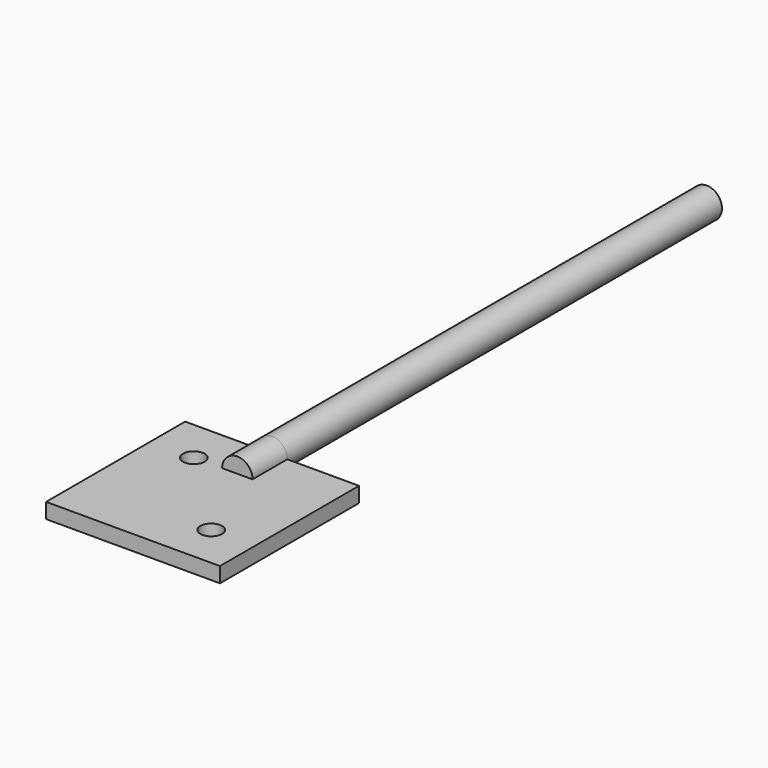
from build123d import *

# Parameters (mm, degrees)
SKETCH_W     = 40
SKETCH_H     = 40
PAD_DEPTH    = 3.5
SKETCH001_R  = 2.5
POCKET_DEPTH = 5
SKETCH002_R  = 3.5
PAD001_DEPTH = 125
PAD002_DEPTH = 10


with BuildPart() as part:
    # Sketch → Pad (new body)
    with BuildSketch(Plane.XY):
        Rectangle(SKETCH_W, SKETCH_H)
    extrude(amount=PAD_DEPTH)

    # Sketch001 (on Face6 of Pad) → Pocket (cut)
    with BuildSketch(Plane.XY.offset(3.5)):
        with Locations((-10, 10)):
            Circle(SKETCH001_R)
        with Locations((10, -10)):
            Circle(SKETCH001_R)
    extrude(amount=-POCKET_DEPTH, mode=Mode.SUBTRACT)

    # Sketch002 (on Face1 of Pocket) → Pad001 (join)
    with BuildSketch(Plane(origin=(0, 20, 0), x_dir=(-1, 0, 0), z_dir=(0, 1, 0))):
        with Locations((0, 3.5)):
            Circle(SKETCH002_R)
    extrude(amount=PAD001_DEPTH)

    # Sketch003 (on Face11 of Pad001) → Pad002 (join)
    with BuildSketch(Plane.XZ.offset(-20)):
        with BuildLine():
            ThreePointArc((3.5, 3.5), (0, 7), (-3.5, 3.5))
            Line((-3.5, 3.5), (3.5, 3.5))
        make_face()
    extrude(amount=PAD002_DEPTH)


solid = part.part
